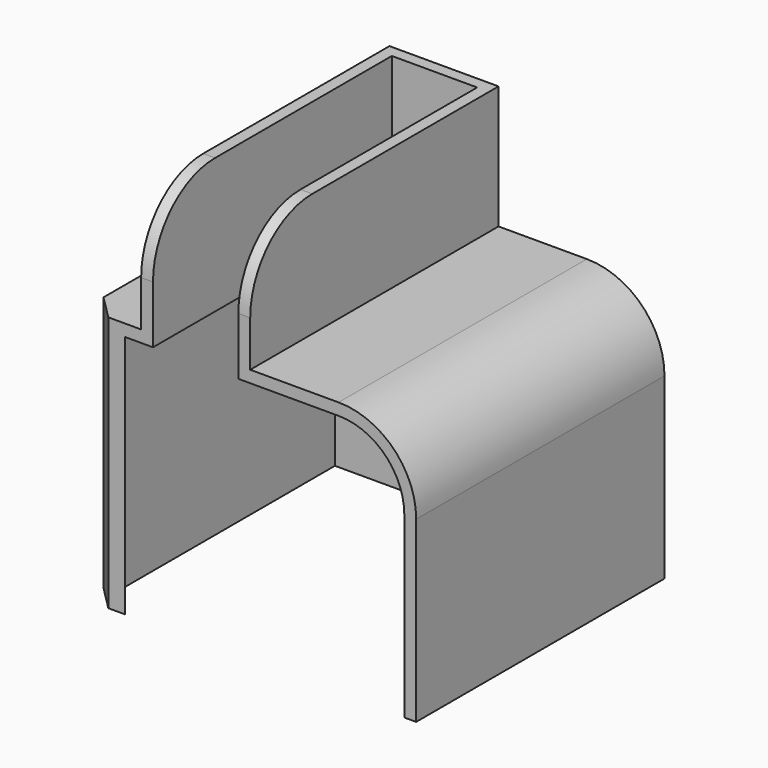
from build123d import *

# Parameters (mm, degrees)
F0_W     = 23
F0_H     = 26
F1_DEPTH = 65.4574409127
F2_R     = 16.367035619
F3_SIZE  = 5.08
F4_T     = -2.5


with BuildPart() as f1:
    # F0 (on Front) → F1 (new body)
    with BuildSketch(Plane.XZ):
        Polygon((-18, 24), (-30, 24), (-30, -30), (40, -30), (40, 24), (5, 24), align=None)
        with Locations((-6.5, 37)):
            Rectangle(F0_W, F0_H)
    extrude(amount=F1_DEPTH)

    # F2
    f2_edges = [f1.edges().sort_by_distance(p)[0] for p in [
        (40, -32.72872, 24),
        (-6.5, -65.457441, 50),
    ]]
    fillet(f2_edges, radius=F2_R)

    # F3
    f3_edges = [f1.edges().sort_by_distance(p)[0] for p in [
        (-30, -65.457441, -3),
    ]]
    chamfer(f3_edges, length=F3_SIZE)

    # F4
    f4_openings = [f1.faces().sort_by_distance(p)[0] for p in [
        (5.094058, -32.641076, -30),
        (-6.5, -24.545203, 50),
        (-6.5, -60.663647, 45.206206),
        (6.241123, -65.457441, -1.444797),
    ]]
    offset(amount=F4_T, openings=f4_openings, kind=Kind.INTERSECTION)


solid = f1.part
